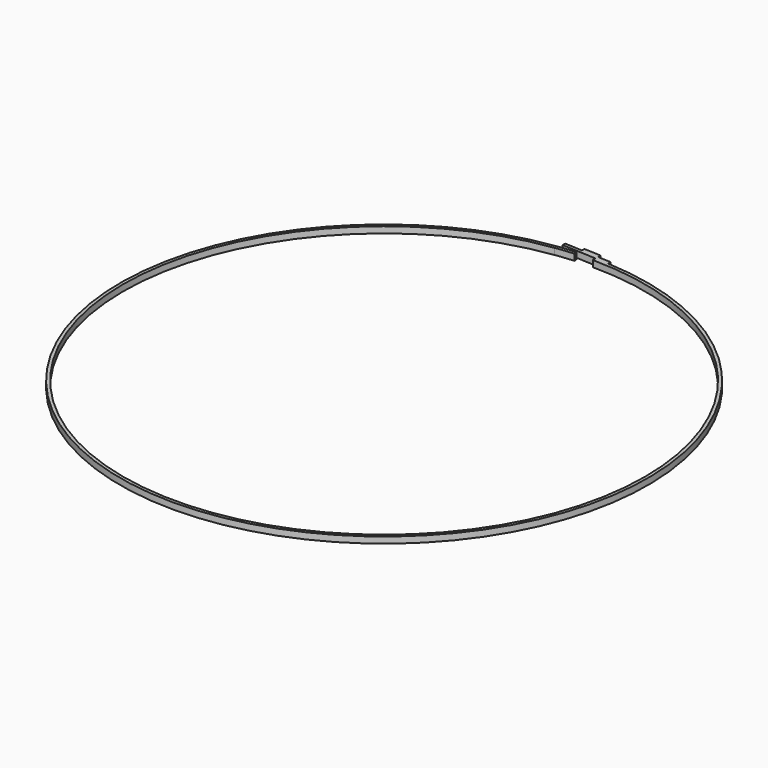
from build123d import *

# Parameters (mm, degrees)
F1_DEPTH = 1.016


with BuildPart() as f1:
    # F0 (on Top) → F1 (new body)
    with BuildSketch(Plane.XY):
        with BuildLine():
            ThreePointArc((42.0624, 0), (-27.601786, -31.739359), (-5.83724, 41.655397))
            ThreePointArc((-5.83724, 41.655397), (-4.362841, 41.835524), (-2.883003, 41.963482))
            Line((-2.883003, 41.963482), (-2.917822, 42.470287))
            ThreePointArc((-2.917822, 42.470287), (-4.415533, 42.340784), (-5.907738, 42.158482))
            ThreePointArc((-5.907738, 42.158482), (1.91701, -42.527215), (2.090709, 42.51903))
            Line((2.090709, 42.51903), (2.115717, 43.027622))
            Line((2.115717, 43.027622), (0, 43.131654))
            Line((0, 43.131654), (0, 43.640268))
            Line((0, 43.640268), (-2.697201, 43.772892))
            Line((-2.697201, 43.772892), (-2.72215, 43.265505))
            Line((-2.72215, 43.265505), (-5.507269, 43.402453))
            Line((-5.507269, 43.402453), (-5.507269, 42.894453))
            Line((-5.507269, 42.894453), (0, 42.622334))
            Line((0, 42.622334), (0, 42.0624))
            ThreePointArc((0, 42.0624), (29.742608, 29.742608), (42.0624, 0))
        make_face()
    extrude(amount=F1_DEPTH)


solid = f1.part
